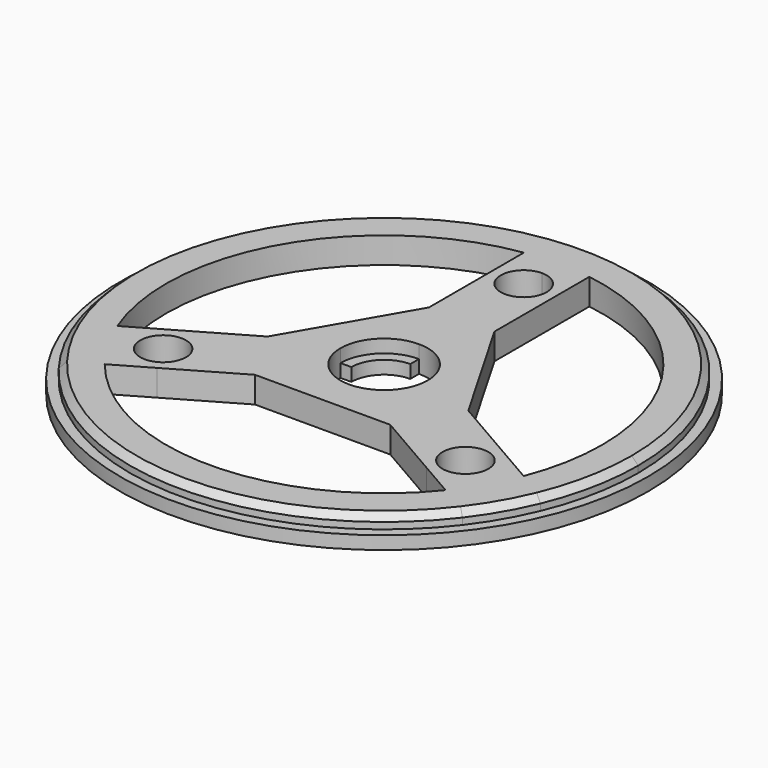
from build123d import *

# Parameters (mm, degrees)
F0_R     = 5.25
F1_DEPTH = 6
F0_R_2   = 60.5
F2_DEPTH = 3
F3_SIZE  = 1.5


with BuildPart() as f1:
    # F0 (on Top) → F1 (new body)
    with BuildSketch(Plane.XY):
        with BuildLine():
            ThreePointArc((7.5, 49.4342998332), (37.9143772203, 32.596012026), (50, 0))
            ThreePointArc((50, 0), (49.1328198544, -9.2717858665), (46.5613594739, -18.2219593882))
            Line((46.5613594739, -18.2219593882), (53.7760869447, -22.3873842357))
            ThreePointArc((53.7760869447, -22.3873842357), (57.1205723209, -11.4150215828), (58.25, 0))
            ThreePointArc((58.25, 0), (43.7603559172, 38.4459848359), (7.5, 57.7651495281))
            Line((7.5, 57.7651495281), (7.5, 49.4342998332))
        make_face()
        with BuildLine():
            ThreePointArc((0, 50), (3.7606520937, 49.8583743801), (7.5, 49.4342998332))
            Line((7.5, 49.4342998332), (7.5, 57.7651495281))
            Line((7.5, 57.7651495281), (-7.5, 57.7651495281))
            Line((-7.5, 57.7651495281), (-7.5, 49.4342998332))
            ThreePointArc((-7.5, 49.4342998332), (-3.7606520937, 49.8583743801), (0, 50))
        make_face()
        with BuildLine():
            ThreePointArc((-46.5613594739, -18.2219593882), (-43.3012701892, 25), (-7.5, 49.4342998332))
            Line((-7.5, 49.4342998332), (-7.5, 57.7651495281))
            ThreePointArc((-7.5, 57.7651495281), (-50.4459797704, 29.125), (-53.7760869447, -22.3873842357))
            Line((-53.7760869447, -22.3873842357), (-46.5613594739, -18.2219593882))
        make_face()
        with BuildLine():
            Line((-46.2760869447, -35.3777652924), (-39.0613594739, -31.212340445))
            ThreePointArc((-39.0613594739, -31.212340445), (-43.3012701892, -25), (-46.5613594739, -18.2219593882))
            Line((-46.5613594739, -18.2219593882), (-53.7760869447, -22.3873842357))
            ThreePointArc((-53.7760869447, -22.3873842357), (-50.4459797704, -29.125), (-46.2760869447, -35.3777652924))
        make_face()
        with BuildLine():
            Line((46.2760869447, -35.3777652924), (39.0613594739, -31.212340445))
            ThreePointArc((39.0613594739, -31.212340445), (0, -50), (-39.0613594739, -31.212340445))
            Line((-39.0613594739, -31.212340445), (-46.2760869447, -35.3777652924))
            ThreePointArc((-46.2760869447, -35.3777652924), (0, -58.25), (46.2760869447, -35.3777652924))
        make_face()
        with BuildLine():
            Line((53.7760869447, -22.3873842357), (46.5613594739, -18.2219593882))
            ThreePointArc((46.5613594739, -18.2219593882), (43.3012701892, -25), (39.0613594739, -31.212340445))
            Line((39.0613594739, -31.212340445), (46.2760869447, -35.3777652924))
            ThreePointArc((46.2760869447, -35.3777652924), (50.4459797704, -29.125), (53.7760869447, -22.3873842357))
        make_face()
        with BuildLine():
            Line((-7.5, 57.7651495281), (7.5, 57.7651495281))
            ThreePointArc((7.5, 57.7651495281), (0, 58.25), (-7.5, 57.7651495281))
        make_face()
        with BuildLine():
            Line((7.5, 40), (7.5, 49.4342998332))
            ThreePointArc((7.5, 49.4342998332), (3.7606520937, 49.8583743801), (0, 50))
            Line((0, 50), (0, 47.5))
            ThreePointArc((0, 47.5), (5.3033008589, 45.3033008589), (7.5, 40))
        make_face()
        with BuildLine():
            Line((0, 47.5), (0, 50))
            ThreePointArc((0, 50), (-3.7606520937, 49.8583743801), (-7.5, 49.4342998332))
            Line((-7.5, 49.4342998332), (-7.5, 40))
            ThreePointArc((-7.5, 40), (-5.3033008589, 45.3033008589), (0, 47.5))
        make_face()
        with BuildLine():
            ThreePointArc((-7.5, 40), (0, 32.5), (7.5, 40))
            ThreePointArc((7.5, 40), (5.3033008589, 45.3033008589), (0, 47.5))
            ThreePointArc((0, 47.5), (-5.3033008589, 45.3033008589), (-7.5, 40))
        make_face()
        with BuildLine():
            ThreePointArc((5.25, 40), (-3.7123106012, 36.2876893988), (0, 45.25))
            ThreePointArc((0, 45.25), (3.7123106012, 43.7123106012), (5.25, 40))
        make_face(mode=Mode.SUBTRACT)
        with BuildLine():
            ThreePointArc((39.0613594739, -31.212340445), (43.3012701892, -25), (46.5613594739, -18.2219593882))
            Line((46.5613594739, -18.2219593882), (38.3910161948, -13.5048094967))
            ThreePointArc((38.3910161948, -13.5048094967), (41.1362066923, -16.2500000217), (42.1410161514, -20))
            ThreePointArc((42.1410161514, -20), (38.3910161049, -26.4951905552), (30.8910160584, -26.4951904747))
            Line((30.8910160584, -26.4951904747), (39.0613594739, -31.212340445))
        make_face()
        with BuildLine():
            ThreePointArc((42.1410161514, -20), (41.1362066923, -16.2500000217), (38.3910161948, -13.5048094967))
            ThreePointArc((38.3910161948, -13.5048094967), (28.1458256624, -16.2499999318), (30.8910160584, -26.4951904747))
            ThreePointArc((30.8910160584, -26.4951904747), (38.3910161049, -26.4951905552), (42.1410161514, -20))
        make_face()
        with Locations((34.6410161514, -20)):
            Circle(F0_R, mode=Mode.SUBTRACT)
        with BuildLine():
            ThreePointArc((-38.3910159202, -13.5048093381), (-41.1362067455, -23.7499998861), (-30.891016148, -26.4951905264))
            ThreePointArc((-30.891016148, -26.4951905264), (-28.145825622, -23.7499999983), (-27.1410161514, -20))
            ThreePointArc((-27.1410161514, -20), (-30.8910160358, -13.5048095384), (-38.3910159202, -13.5048093381))
        make_face()
        with Locations((-34.6410161514, -20)):
            Circle(F0_R, mode=Mode.SUBTRACT)
        with BuildLine():
            ThreePointArc((-46.5613594739, -18.2219593882), (-43.3012701892, -25), (-39.0613594739, -31.212340445))
            Line((-39.0613594739, -31.212340445), (-30.891016148, -26.4951905264))
            ThreePointArc((-30.891016148, -26.4951905264), (-41.1362067455, -23.7499998861), (-38.3910159202, -13.5048093381))
            Line((-38.3910159202, -13.5048093381), (-46.5613594739, -18.2219593882))
        make_face()
        with BuildLine():
            Line((7.5, 22.2348504719), (7.5, 40))
            ThreePointArc((7.5, 40), (0, 32.5), (-7.5, 40))
            Line((-7.5, 40), (-7.5, 22.2348504719))
            Line((-7.5, 22.2348504719), (7.5, 22.2348504719))
        make_face()
        with BuildLine():
            ThreePointArc((30.8910160584, -26.4951904747), (28.1458256624, -16.2499999318), (38.3910161948, -13.5048094967))
            Line((38.3910161948, -13.5048094967), (23.005945358, -4.6222347076))
            Line((23.005945358, -4.6222347076), (7.5, 22.2348504719))
            Line((7.5, 22.2348504719), (-7.5, 22.2348504719))
            Line((-7.5, 22.2348504719), (-23.005945358, -4.6222347076))
            Line((-23.005945358, -4.6222347076), (-38.3910159202, -13.5048093381))
            ThreePointArc((-38.3910159202, -13.5048093381), (-30.8910160358, -13.5048095384), (-27.1410161514, -20))
            ThreePointArc((-27.1410161514, -20), (-28.145825622, -23.7499999983), (-30.891016148, -26.4951905264))
            Line((-30.891016148, -26.4951905264), (-15.505945358, -17.6126157643))
            Line((-15.505945358, -17.6126157643), (15.505945358, -17.6126157643))
            Line((15.505945358, -17.6126157643), (30.8910160584, -26.4951904747))
        make_face()
        with BuildLine():
            ThreePointArc((0, 10), (7.0710678119, 7.0710678119), (10, 0))
            ThreePointArc((10, 0), (7.0710678119, -7.0710678119), (0, -10))
            ThreePointArc((0, -10), (-7.0710678119, -7.0710678119), (-10, 0))
            ThreePointArc((-10, 0), (-7.0710678119, 7.0710678119), (0, 10))
        make_face(mode=Mode.SUBTRACT)
    extrude(amount=F1_DEPTH)

    # F0 (on Top) → F2 (join)
    with BuildSketch(Plane.XY):
        Circle(F0_R_2)
        with BuildLine():
            ThreePointArc((-7.5, 57.7651495281), (0, 58.25), (7.5, 57.7651495281))
            ThreePointArc((7.5, 57.7651495281), (43.7603559172, 38.4459848359), (58.25, 0))
            ThreePointArc((58.25, 0), (57.1205723209, -11.4150215828), (53.7760869447, -22.3873842357))
            ThreePointArc((53.7760869447, -22.3873842357), (50.4459797704, -29.125), (46.2760869447, -35.3777652924))
            ThreePointArc((46.2760869447, -35.3777652924), (0, -58.25), (-46.2760869447, -35.3777652924))
            ThreePointArc((-46.2760869447, -35.3777652924), (-50.4459797704, -29.125), (-53.7760869447, -22.3873842357))
            ThreePointArc((-53.7760869447, -22.3873842357), (-50.4459797704, 29.125), (-7.5, 57.7651495281))
        make_face(mode=Mode.SUBTRACT)
        with BuildLine():
            ThreePointArc((-7.5, 0), (-5.3033008589, 5.3033008589), (0, 7.5))
            Line((0, 7.5), (0, 10))
            ThreePointArc((0, 10), (-7.0710678119, 7.0710678119), (-10, 0))
            Line((-10, 0), (-7.5, 0))
        make_face()
        with BuildLine():
            Line((10, 0), (7.5, 0))
            ThreePointArc((7.5, 0), (5.3033008589, -5.3033008589), (0, -7.5))
            Line((0, -7.5), (0, -10))
            ThreePointArc((0, -10), (7.0710678119, -7.0710678119), (10, 0))
        make_face()
    extrude(amount=F2_DEPTH)

    # F3
    f3_edges = [f1.edges().sort_by_distance(p)[0] for p in [
        (-7.5, -57.76515, 6),
    ]]
    chamfer(f3_edges, length=F3_SIZE)


solid = f1.part
